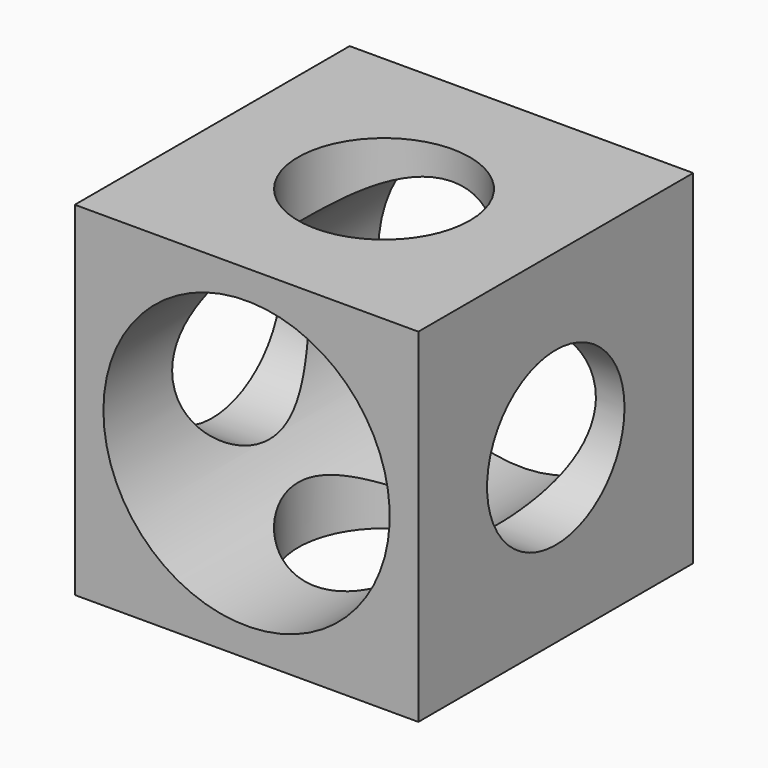
from build123d import *

# Parameters (mm, degrees)
F0_W     = 6
F0_H     = 6
F0_R     = 1.5
F1_DEPTH = 6
F2_R     = 1.5
F3_DEPTH = 25
F4_R     = 2.5
F5_DEPTH = 25


with BuildPart() as f1:
    # F0 (on Top) → F1 (new body)
    with BuildSketch(Plane.XY):
        Rectangle(F0_W, F0_H)
        Circle(F0_R, mode=Mode.SUBTRACT)
    extrude(amount=F1_DEPTH)

    # F2 (on face) → F3 (cut)
    with BuildSketch(Plane.YZ.offset(3)):
        with Locations((0, 3)):
            Circle(F2_R)
    extrude(amount=-F3_DEPTH, mode=Mode.SUBTRACT)

    # F4 (on face) → F5 (cut)
    with BuildSketch(Plane(origin=(0, 3, 0), x_dir=(-1, 0, 0), z_dir=(0, 1, 0))):
        with Locations((0, 3)):
            Circle(F4_R)
    extrude(amount=-F5_DEPTH, mode=Mode.SUBTRACT)


solid = f1.part
